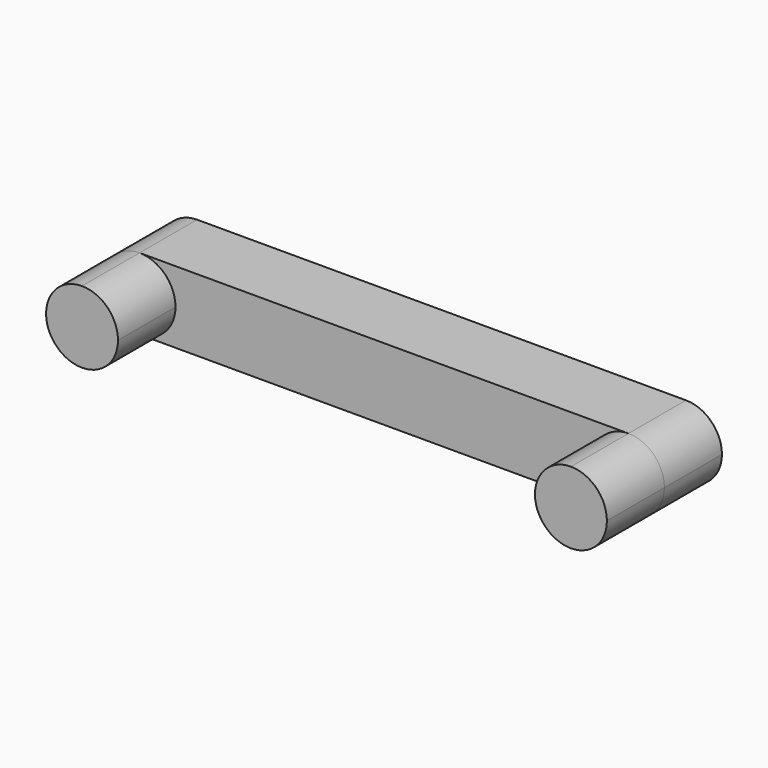
from build123d import *

# Parameters (mm, degrees)
F1_DEPTH = 10
F2_DEPTH = 5


with BuildPart() as f1:
    # F0 (on Front) → F1 (new body)
    with BuildSketch(Plane.XZ):
        with BuildLine():
            Line((0, -2.5), (0, 2.5))
            ThreePointArc((0, 2.5), (-2.5, 0), (0, -2.5))
        make_face()
        with BuildLine():
            ThreePointArc((0, -2.5), (1.767766953, -1.767766953), (2.5, 0))
            ThreePointArc((2.5, 0), (1.767766953, 1.767766953), (0, 2.5))
            Line((0, 2.5), (0, -2.5))
        make_face()
    extrude(amount=F1_DEPTH)


with BuildPart() as f1b:
    # F0 (on Front) → F1, piece 2 (new body)
    with BuildSketch(Plane.XZ):
        with BuildLine():
            Line((34, -2.5), (34, 2.5))
            ThreePointArc((34, 2.5), (31.5, 0), (34, -2.5))
        make_face()
        with BuildLine():
            ThreePointArc((36.5, 0), (35.767766953, 1.767766953), (34, 2.5))
            Line((34, 2.5), (34, -2.5))
            ThreePointArc((34, -2.5), (35.767766953, -1.767766953), (36.5, 0))
        make_face()
    extrude(amount=F1_DEPTH)


with BuildPart() as f2:
    # F0 (on Front) → F2 (new body)
    with BuildSketch(Plane.XZ):
        with BuildLine():
            ThreePointArc((0, -2.5), (1.767766953, -1.767766953), (2.5, 0))
            ThreePointArc((2.5, 0), (1.767766953, 1.767766953), (0, 2.5))
            Line((0, 2.5), (0, -2.5))
        make_face()
        with BuildLine():
            ThreePointArc((0, 2.5), (1.767766953, 1.767766953), (2.5, 0))
            ThreePointArc((2.5, 0), (1.767766953, -1.767766953), (0, -2.5))
            Line((0, -2.5), (34, -2.5))
            ThreePointArc((34, -2.5), (31.5, 0), (34, 2.5))
            Line((34, 2.5), (0, 2.5))
        make_face()
        with BuildLine():
            Line((0, -2.5), (0, 2.5))
            ThreePointArc((0, 2.5), (-2.5, 0), (0, -2.5))
        make_face()
        with BuildLine():
            Line((34, -2.5), (34, 2.5))
            ThreePointArc((34, 2.5), (31.5, 0), (34, -2.5))
        make_face()
        with BuildLine():
            ThreePointArc((36.5, 0), (35.767766953, 1.767766953), (34, 2.5))
            Line((34, 2.5), (34, -2.5))
            ThreePointArc((34, -2.5), (35.767766953, -1.767766953), (36.5, 0))
        make_face()
    extrude(amount=F2_DEPTH)


solid = Compound([f1.part, f1b.part, f2.part])
